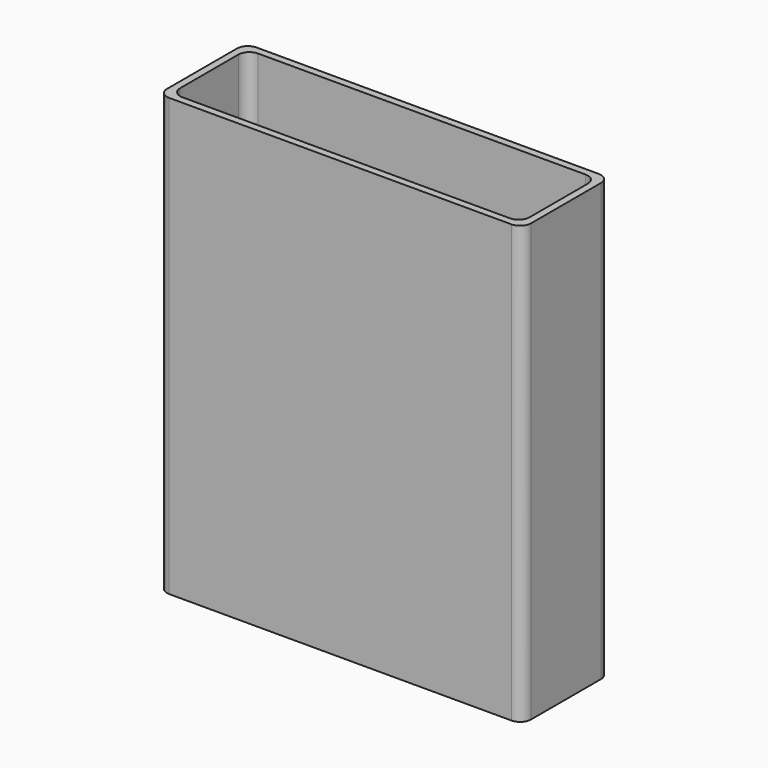
from build123d import *

# Parameters (mm, degrees)
F0_W     = 50
F0_H     = 15
F1_DEPTH = 60
F2_T     = -1
F3_R     = 1.5


with BuildPart() as f1:
    # F0 (on Top) → F1 (new body)
    with BuildSketch(Plane.XY):
        Rectangle(F0_W, F0_H)
    extrude(amount=F1_DEPTH)

    # F2
    f2_openings = [f1.faces().sort_by_distance(p)[0] for p in [
        (0, 0, 60),
        (0, 0, 0),
    ]]
    offset(amount=F2_T, openings=f2_openings)

    # F3
    f3_edges = [f1.edges().sort_by_distance(p)[0] for p in [
        (25, 7.5, 30),
        (25, -7.5, 30),
        (-25, 7.5, 30),
        (-25, -7.5, 30),
        (-24, -6.5, 30),
        (24, -6.5, 30),
        (-24, 6.5, 30),
        (24, 6.5, 30),
    ]]
    fillet(f3_edges, radius=F3_R)


solid = f1.part
